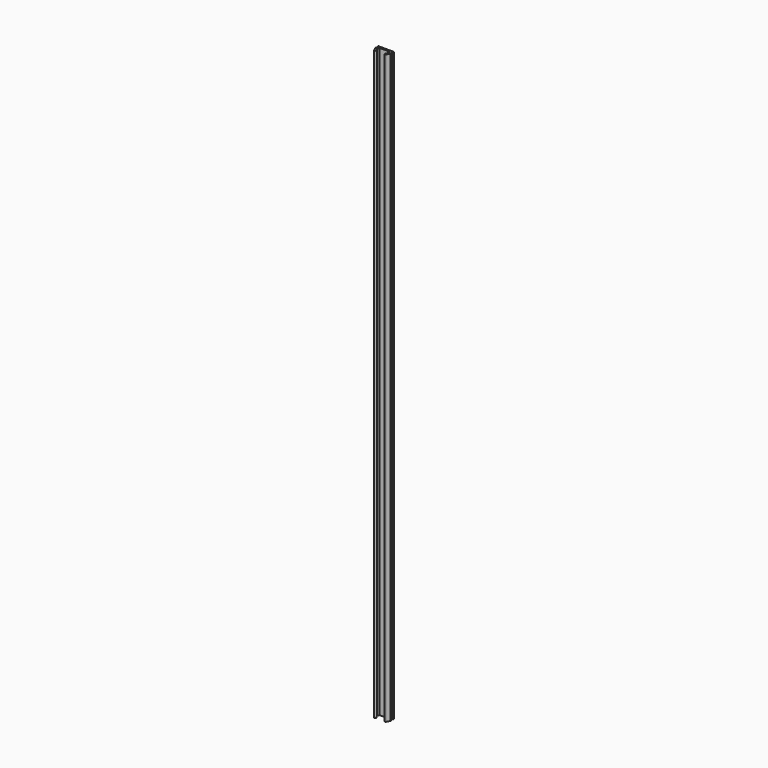
from build123d import *

# Parameters (mm, degrees)
PAD_DEPTH = 340


with BuildPart() as part:
    # Sketch → Pad (new body)
    with BuildSketch(Plane.XY):
        with BuildLine():
            Line((-4.5, 4.3), (4.5, 4.3))
            Line((4.5, 4.3), (4.5, 4))
            Line((4.5, 4), (3.9, 4))
            Line((3.9, 4), (4.5, 2))
            Line((4.5, 2), (3.441966, 0))
            ThreePointArc((2.558034, 0.467615), (2.766192, -0.208159), (3.441966, 0))
            Line((2.558034, 0.467615), (3.368691, 2))
            Line((3.368691, 2), (3, 3.228972))
            Line((-3, 3.228972), (3, 3.228972))
            Line((-3, 3.228972), (-3.368691, 2))
            Line((-3.368691, 2), (-2.558034, 0.467615))
            ThreePointArc((-3.441966, 0), (-2.766192, -0.208159), (-2.558034, 0.467615))
            Line((-3.441966, 0), (-4.5, 2))
            Line((-4.5, 2), (-3.9, 4))
            Line((-3.9, 4), (-4.5, 4))
            Line((-4.5, 4), (-4.5, 4.3))
        make_face()
    extrude(amount=PAD_DEPTH)


solid = part.part
